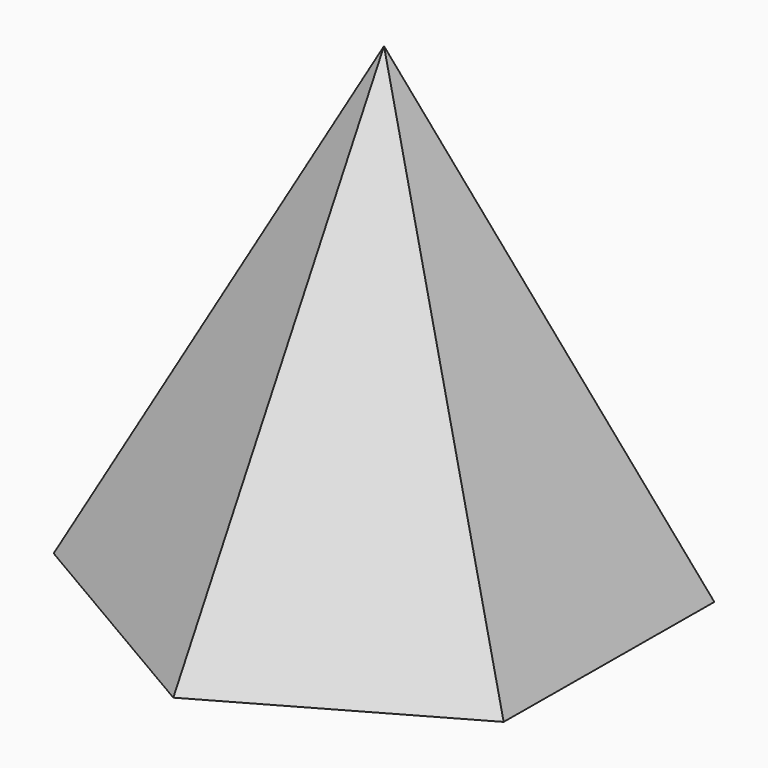
from build123d import *


with BuildPart() as f3:
    # F0 (on Top) → F3 section 0
    with BuildSketch(Plane.XY, mode=Mode.PRIVATE) as f3_s0:
        Polygon((-0.555337, -83.717147), (72.223507, -42.339509), (72.778844, 41.377637), (0.555337, 83.717147), (-72.223507, 42.339509), (-72.778844, -41.377637), align=None)
    loft([f3_s0.sketch, Vertex(0, 0, 150)])


solid = f3.part
